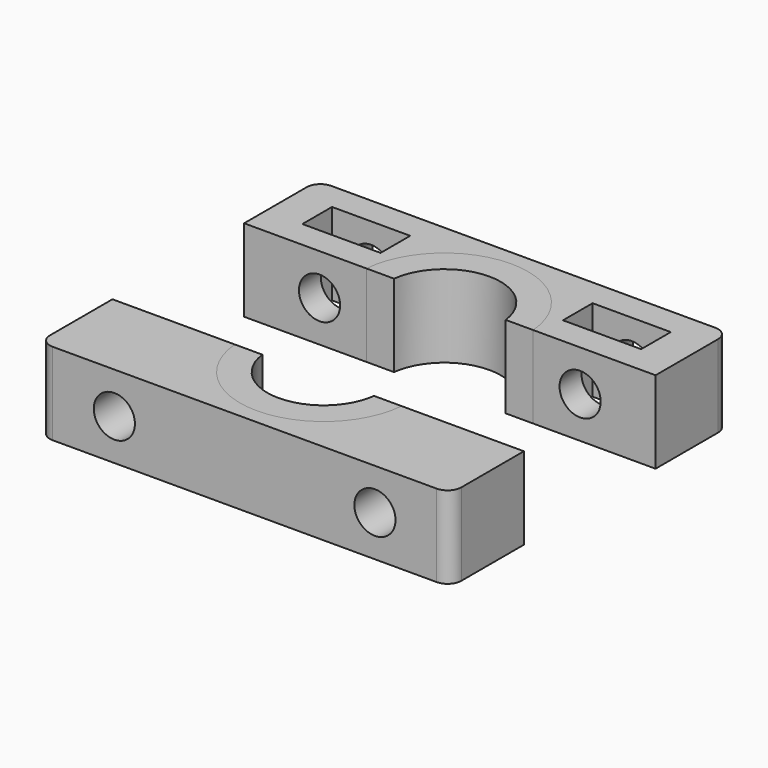
from build123d import *

# Parameters (mm, degrees)
SKETCH_W                = 5.7
SKETCH_H                = 2.7
PAD_DEPTH               = 6
SKETCH001_R             = 1.5
POCKET_DEPTH            = 7.201
POCKET_DEPTH_BACK       = -0.001
FILLET001_R             = 1
PAD001_DEPTH            = 6
SKETCH003_R             = 1.5
POCKET001_DEPTH         = 7.201
POCKET001_DEPTH_BACK    = -0.001
FILLET_R                = 1
BODY001_PLACEMENT_ANGLE = 180
SKETCH004_W             = 5.7
SKETCH004_H             = 2.7
PAD002_DEPTH            = 6
SKETCH005_R             = 1.5
POCKET002_DEPTH         = 7.201
POCKET002_DEPTH_BACK    = -0.001
FILLET002_R             = 1
PAD003_DEPTH            = 6
SKETCH007_R             = 1.5
POCKET003_DEPTH         = 7.201
POCKET003_DEPTH_BACK    = -0.001
FILLET003_R             = 1
BODY003_PLACEMENT_ANGLE = 180


with BuildPart() as end_stop_base:
    # Sketch → Pad (new body)
    with BuildSketch(Plane.XY):
        with BuildLine():
            ThreePointArc((4.069398, 0.5), (0, 4.1), (-4.069398, 0.5))
            Line((-4.069398, 0.5), (-15, 0.5))
            Line((-15, 0.5), (-15, 7.2))
            Line((-15, 7.2), (15, 7.2))
            Line((15, 7.2), (15, 0.5))
            Line((4.069398, 0.5), (15, 0.5))
        make_face()
        with Locations((-9.5, 3.85)):
            Rectangle(SKETCH_W, SKETCH_H, mode=Mode.SUBTRACT)
        with Locations((9.5, 3.85)):
            Rectangle(SKETCH_W, SKETCH_H, mode=Mode.SUBTRACT)
    extrude(amount=PAD_DEPTH)

    # Sketch001 → Pocket (cut, two sides)
    with BuildSketch(Plane.XZ) as pocket_sk:
        with Locations((-9.5, 3)):
            Circle(SKETCH001_R)
        with Locations((9.5, 3)):
            Circle(SKETCH001_R)
    extrude(amount=-POCKET_DEPTH, mode=Mode.SUBTRACT)
    extrude(pocket_sk.sketch, amount=-POCKET_DEPTH_BACK, mode=Mode.SUBTRACT)

    # Fillet001
    fillet001_edges = [end_stop_base.edges().sort_by_distance(p)[0] for p in [
        (-15, 7.2, 3),
        (15, 7.2, 3),
    ]]
    fillet(fillet001_edges, radius=FILLET001_R)


with BuildPart() as obj1:
    # Sketch002 → Pad001 (new body)
    with BuildSketch(Plane.XY):
        with BuildLine():
            ThreePointArc((4.069398, 0.5), (0, 4.1), (-4.069398, 0.5))
            Line((-4.069398, 0.5), (-15, 0.5))
            Line((-15, 0.5), (-15, 7.2))
            Line((-15, 7.2), (15, 7.2))
            Line((15, 7.2), (15, 0.5))
            Line((4.069398, 0.5), (15, 0.5))
        make_face()
    extrude(amount=PAD001_DEPTH)

    # Sketch003 → Pocket001 (cut, two sides)
    with BuildSketch(Plane.XZ) as pocket001_sk:
        with Locations((-9.5, 3)):
            Circle(SKETCH003_R)
        with Locations((9.5, 3)):
            Circle(SKETCH003_R)
    extrude(amount=-POCKET001_DEPTH, mode=Mode.SUBTRACT)
    extrude(pocket001_sk.sketch, amount=-POCKET001_DEPTH_BACK, mode=Mode.SUBTRACT)

    # Fillet
    fillet_edges = [obj1.edges().sort_by_distance(p)[0] for p in [
        (-15, 7.2, 3),
        (15, 7.2, 3),
    ]]
    fillet(fillet_edges, radius=FILLET_R)


with BuildPart() as obj1_1:
    # Body001 placement: moved
    add(obj1.part.moved(Location((0, -11, 0))).rotate(Axis((0, -11, 0), (0, 0, 1)), BODY001_PLACEMENT_ANGLE))


with BuildPart() as end_stop_base_12mm:
    # Sketch004 → Pad002 (new body)
    with BuildSketch(Plane.XY):
        with BuildLine():
            ThreePointArc((6.079474, 0.5), (0, 6.1), (-6.079474, 0.5))
            Line((-6.079474, 0.5), (-15, 0.5))
            Line((-15, 0.5), (-15, 7.2))
            Line((-15, 7.2), (15, 7.2))
            Line((15, 7.2), (15, 0.5))
            Line((6.079474, 0.5), (15, 0.5))
        make_face()
        with Locations((-9.5, 3.85)):
            Rectangle(SKETCH004_W, SKETCH004_H, mode=Mode.SUBTRACT)
        with Locations((9.5, 3.85)):
            Rectangle(SKETCH004_W, SKETCH004_H, mode=Mode.SUBTRACT)
    extrude(amount=PAD002_DEPTH)

    # Sketch005 → Pocket002 (cut, two sides)
    with BuildSketch(Plane.XZ) as pocket002_sk:
        with Locations((-9.5, 3)):
            Circle(SKETCH005_R)
        with Locations((9.5, 3)):
            Circle(SKETCH005_R)
    extrude(amount=-POCKET002_DEPTH, mode=Mode.SUBTRACT)
    extrude(pocket002_sk.sketch, amount=-POCKET002_DEPTH_BACK, mode=Mode.SUBTRACT)

    # Fillet002
    fillet002_edges = [end_stop_base_12mm.edges().sort_by_distance(p)[0] for p in [
        (-15, 7.2, 3),
        (15, 7.2, 3),
    ]]
    fillet(fillet002_edges, radius=FILLET002_R)


with BuildPart() as obj1_12mm:
    # Sketch006 → Pad003 (new body)
    with BuildSketch(Plane.XY):
        with BuildLine():
            ThreePointArc((6.079474, 0.5), (0, 6.1), (-6.079474, 0.5))
            Line((-6.079474, 0.5), (-15, 0.5))
            Line((-15, 0.5), (-15, 7.2))
            Line((-15, 7.2), (15, 7.2))
            Line((15, 7.2), (15, 0.5))
            Line((6.079474, 0.5), (15, 0.5))
        make_face()
    extrude(amount=PAD003_DEPTH)

    # Sketch007 → Pocket003 (cut, two sides)
    with BuildSketch(Plane.XZ) as pocket003_sk:
        with Locations((-9.5, 3)):
            Circle(SKETCH007_R)
        with Locations((9.5, 3)):
            Circle(SKETCH007_R)
    extrude(amount=-POCKET003_DEPTH, mode=Mode.SUBTRACT)
    extrude(pocket003_sk.sketch, amount=-POCKET003_DEPTH_BACK, mode=Mode.SUBTRACT)

    # Fillet003
    fillet003_edges = [obj1_12mm.edges().sort_by_distance(p)[0] for p in [
        (-15, 7.2, 3),
        (15, 7.2, 3),
    ]]
    fillet(fillet003_edges, radius=FILLET003_R)


with BuildPart() as obj1_12mm_1:
    # Body003 placement: moved
    add(obj1_12mm.part.moved(Location((0, -11, 0))).rotate(Axis((0, -11, 0), (0, 0, 1)), BODY003_PLACEMENT_ANGLE))


solid = Compound([end_stop_base.part, obj1_1.part, end_stop_base_12mm.part, obj1_12mm_1.part])
